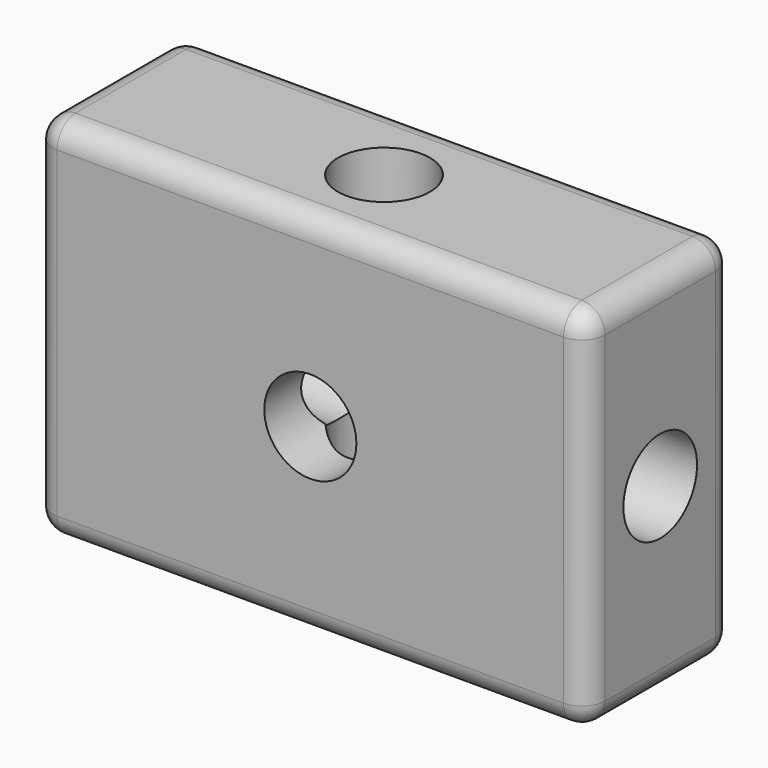
from build123d import *

# Parameters (mm, degrees)
F0_W     = 76.2
F0_H     = 50.8
F1_DEPTH = 25.4
F2_R     = 6.35
F3_DEPTH = 25.401
F4_R     = 6.35
F5_DEPTH = 76.201
F6_R     = 6.35
F7_DEPTH = 50.801
F8_R     = 3.175


with BuildPart() as f1:
    # F0 (on Front) → F1 (new body)
    with BuildSketch(Plane.XZ):
        with Locations((38.1, 25.4)):
            Rectangle(F0_W, F0_H)
    extrude(amount=F1_DEPTH)

    # F2 (on face) → F3 (cut, through all)
    with BuildSketch(Plane.XZ.offset(25.4)):
        with Locations((38.1, 25.4)):
            Circle(F2_R)
    extrude(amount=-F3_DEPTH, mode=Mode.SUBTRACT)

    # F4 (on face) → F5 (cut, through all)
    with BuildSketch(Plane(origin=(0, 0, 0), x_dir=(0, -1, 0), z_dir=(-1, 0, 0))):
        with Locations((12.7, 25.4)):
            Circle(F4_R)
    extrude(amount=-F5_DEPTH, mode=Mode.SUBTRACT)

    # F6 (on face) → F7 (cut, through all)
    with BuildSketch(Plane(origin=(0, 0, 0), x_dir=(1, 0, 0), z_dir=(0, 0, -1))):
        with Locations((38.1, 12.7)):
            Circle(F6_R)
    extrude(amount=-F7_DEPTH, mode=Mode.SUBTRACT)

    # F8
    f8_edges = [f1.edges().sort_by_distance(p)[0] for p in [
        (0, -12.7, 50.8),
        (0, -25.4, 25.4),
        (38.1, -25.4, 0),
        (76.2, -25.4, 25.4),
        (76.2, -12.7, 50.8),
        (76.2, 0, 25.4),
        (38.1, -25.4, 50.8),
        (38.1, 0, 50.8),
        (38.1, 0, 0),
        (0, -12.7, 0),
        (0, 0, 25.4),
        (76.2, -12.7, 0),
    ]]
    fillet(f8_edges, radius=F8_R)


solid = f1.part
